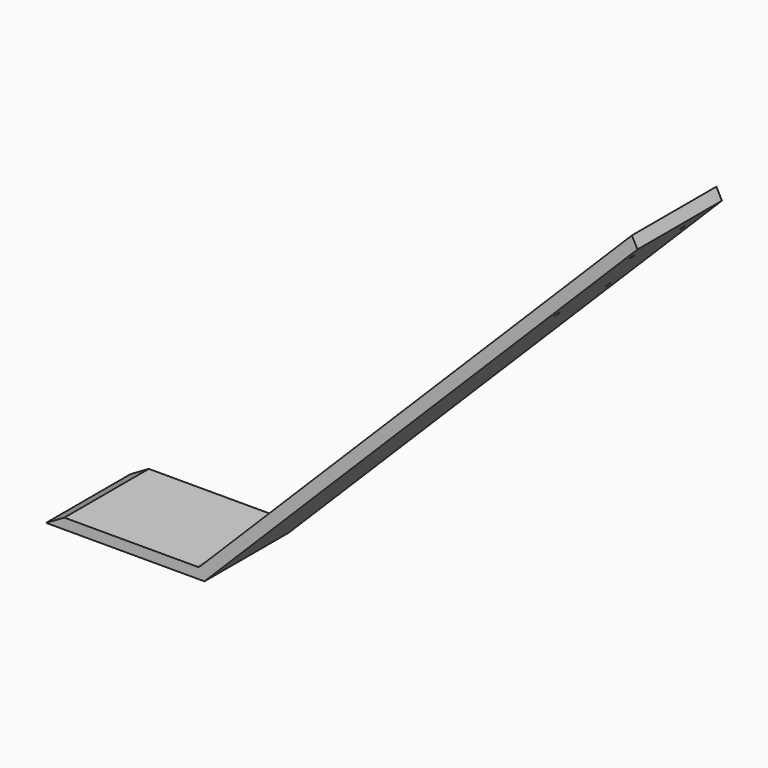
from build123d import *

# Parameters (mm, degrees)
F1_DEPTH = 254
F2_R     = 12.7
F4_D     = 12.7


with BuildPart() as f1:
    # F0 (on Front) → F1 (new body)
    with BuildSketch(Plane.XZ):
        Polygon((43.994091, 25.4), (0, 0), (381, 0), (1422.70971, 1041.70971), (1409.274401, 1067.10971), (367.564691, 25.4), align=None)
    extrude(amount=F1_DEPTH)

    # F2
    f2_edges = [f1.edges().sort_by_distance(p)[0] for p in [
        (367.564691, -127, 25.4),
    ]]
    fillet(f2_edges, radius=F2_R)

    # F4 (through all)
    with Locations(Plane(origin=(190.5, 0, -190.5), x_dir=(0, 1, 0), z_dir=(0.707107, 0, -0.707107))):
        with Locations((-203.2, 1412.407684), (-203.2, 1666.407684), (-50.8, 1666.407684), (-50.8, 1412.407684)):
            Hole(F4_D / 2)


solid = f1.part
